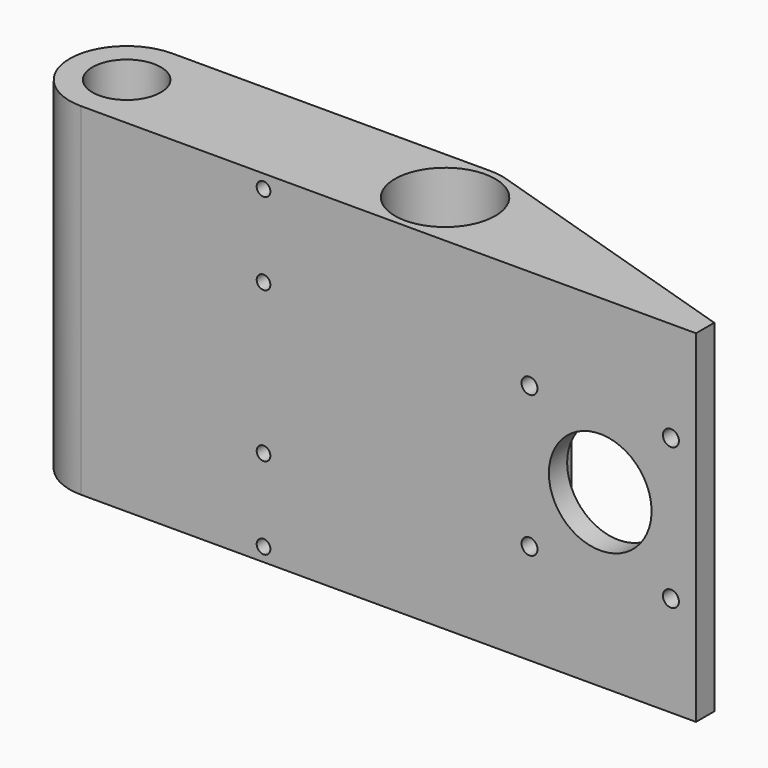
from build123d import *

# Parameters (mm, degrees)
SKETCH_R        = 7.5
SKETCH_R_2      = 4.25
PAD_DEPTH       = 75
SKETCH001_W     = 19.415184
SKETCH001_H     = 42
POCKET_DEPTH    = 42
SKETCH002_R     = 11.25
POCKET001_DEPTH = 5
SKETCH003_R     = 1.75
HOLE_DEPTH      = 25
SKETCH004_R     = 1.5
HOLE001_DEPTH   = 25
HOLE001_TIPS_R  = 1.5
SKETCH005_R     = 11
POCKET002_DEPTH = 33
SKETCH006_R     = 11
POCKET003_DEPTH = 33


with BuildPart() as part:
    # Sketch → Pad (new body)
    with BuildSketch(Plane.XY):
        with BuildLine():
            ThreePointArc((-38.9, 12.5), (-51.4, 0), (-38.9, -12.5))
            Line((-38.9, -12.5), (30.9, -12.5))
            Line((95.9, -12.5), (30.9, -12.5))
            Line((95.9, -7.5), (95.9, -12.5))
            Line((34.678675, 11.915184), (95.9, -7.5))
            ThreePointArc((34.678675, 11.915184), (32.811831, 12.352931), (30.9, 12.5))
            Line((-38.9, 12.5), (30.9, 12.5))
        make_face()
        with Locations((-38.9, 0)):
            Circle(SKETCH_R, mode=Mode.SUBTRACT)
        with Locations((30.9, 0)):
            Circle(SKETCH_R_2, mode=Mode.SUBTRACT)
    extrude(amount=PAD_DEPTH)

    # Sketch001 (on Face3 of Pad) → Pocket (cut)
    with BuildSketch(Plane.YZ.offset(95.9)):
        with Locations((2.207592, 37.5)):
            Rectangle(SKETCH001_W, SKETCH001_H)
    extrude(amount=-POCKET_DEPTH, mode=Mode.SUBTRACT)

    # Sketch002 (on Face11 of Pocket) → Pocket001 (cut)
    with BuildSketch(Plane(origin=(0, -7.5, 0), x_dir=(-1, 0, 0), z_dir=(0, 1, 0))):
        with Locations((-74.9, 37.5)):
            Circle(SKETCH002_R)
    extrude(amount=-POCKET001_DEPTH, mode=Mode.SUBTRACT)

    # Sketch003 (on Face12 of Pocket001) → Hole (cut)
    with BuildSketch(Plane(origin=(0, -7.5, 0), x_dir=(-1, 0, 0), z_dir=(0, 1, 0))):
        with Locations((-90.4, 53)):
            Circle(SKETCH003_R)
        with Locations((-59.4, 53)):
            Circle(SKETCH003_R)
        with Locations((-59.4, 22)):
            Circle(SKETCH003_R)
        with Locations((-90.4, 22)):
            Circle(SKETCH003_R)
    extrude(amount=-HOLE_DEPTH, mode=Mode.SUBTRACT)

    # Sketch004 (on Face3 of Hole) → Hole001 (cut)
    with BuildSketch(Plane.XZ.offset(12.5)):
        with Locations((1.1, 72)):
            Circle(SKETCH004_R)
        with Locations((1.1, 54)):
            Circle(SKETCH004_R)
        with Locations((1.1, 21)):
            Circle(SKETCH004_R)
        with Locations((1.1, 3)):
            Circle(SKETCH004_R)
    extrude(amount=-HOLE001_DEPTH, mode=Mode.SUBTRACT)

    # Hole001 tips → Hole001 tip 1 section 0
    with BuildSketch(Plane.XZ.offset(-12.5), mode=Mode.PRIVATE) as hole001_tip_1_s0:
        with Locations((1.1, 72)):
            Circle(HOLE001_TIPS_R)
    loft([hole001_tip_1_s0.sketch, Vertex(1.1, 13.401291, 72)], mode=Mode.SUBTRACT)

    # Hole001 tips → Hole001 tip 2 section 0
    with BuildSketch(Plane.XZ.offset(-12.5), mode=Mode.PRIVATE) as hole001_tip_2_s0:
        with Locations((1.1, 54)):
            Circle(HOLE001_TIPS_R)
    loft([hole001_tip_2_s0.sketch, Vertex(1.1, 13.401291, 54)], mode=Mode.SUBTRACT)

    # Hole001 tips → Hole001 tip 3 section 0
    with BuildSketch(Plane.XZ.offset(-12.5), mode=Mode.PRIVATE) as hole001_tip_3_s0:
        with Locations((1.1, 21)):
            Circle(HOLE001_TIPS_R)
    loft([hole001_tip_3_s0.sketch, Vertex(1.1, 13.401291, 21)], mode=Mode.SUBTRACT)

    # Hole001 tips → Hole001 tip 4 section 0
    with BuildSketch(Plane.XZ.offset(-12.5), mode=Mode.PRIVATE) as hole001_tip_4_s0:
        with Locations((1.1, 3)):
            Circle(HOLE001_TIPS_R)
    loft([hole001_tip_4_s0.sketch, Vertex(1.1, 13.401291, 3)], mode=Mode.SUBTRACT)

    # Sketch005 (on Face5 of Hole001) → Pocket002 (cut)
    with BuildSketch(Plane.XY.offset(75)):
        with Locations((30.9, 0)):
            Circle(SKETCH005_R)
    extrude(amount=-POCKET002_DEPTH, mode=Mode.SUBTRACT)

    # Sketch006 (on Face4 of Pocket002) → Pocket003 (cut)
    with BuildSketch(Plane(origin=(0, 0, 0), x_dir=(1, 0, 0), z_dir=(0, 0, -1))):
        with Locations((30.9, 0)):
            Circle(SKETCH006_R)
    extrude(amount=-POCKET003_DEPTH, mode=Mode.SUBTRACT)


solid = part.part
